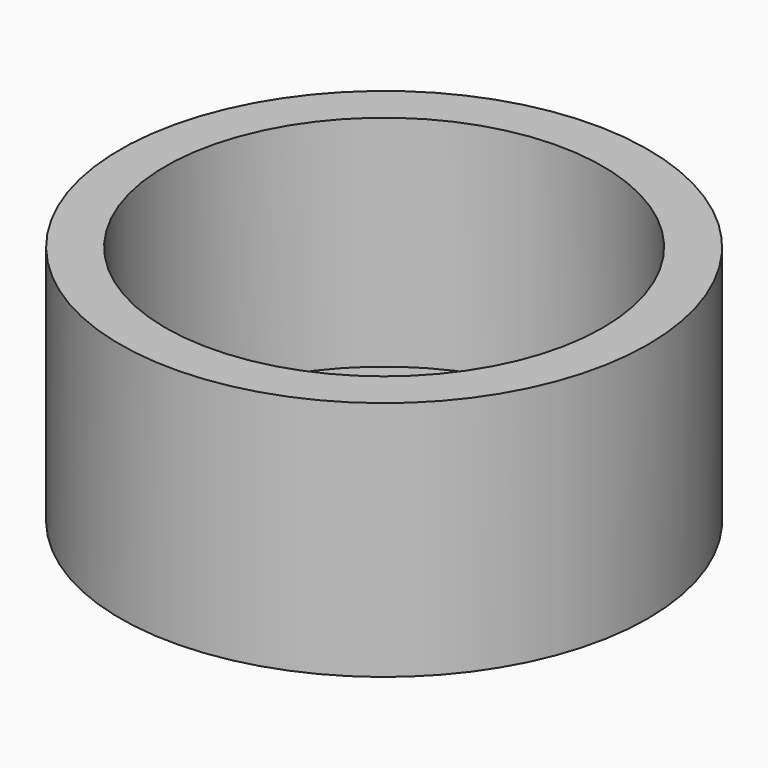
from build123d import *

# Parameters (mm, degrees)
F0_W     = 61.2
F0_H     = 55.9
F2_R     = 50.7
F3_DEPTH = 50.8


with BuildPart() as f1:
    # F0 (on Front) → F1 (revolve)
    with BuildSketch(Plane.XZ):
        with Locations((30.6, 27.95)):
            Rectangle(F0_W, F0_H)
    revolve(axis=Axis((0, 0, 55.681068), (0, 0, 1)))

    # F2 (on face) → F3 (cut)
    with BuildSketch(Plane.XY.offset(55.9)):
        Circle(F2_R)
    extrude(amount=-F3_DEPTH, mode=Mode.SUBTRACT)


solid = f1.part
